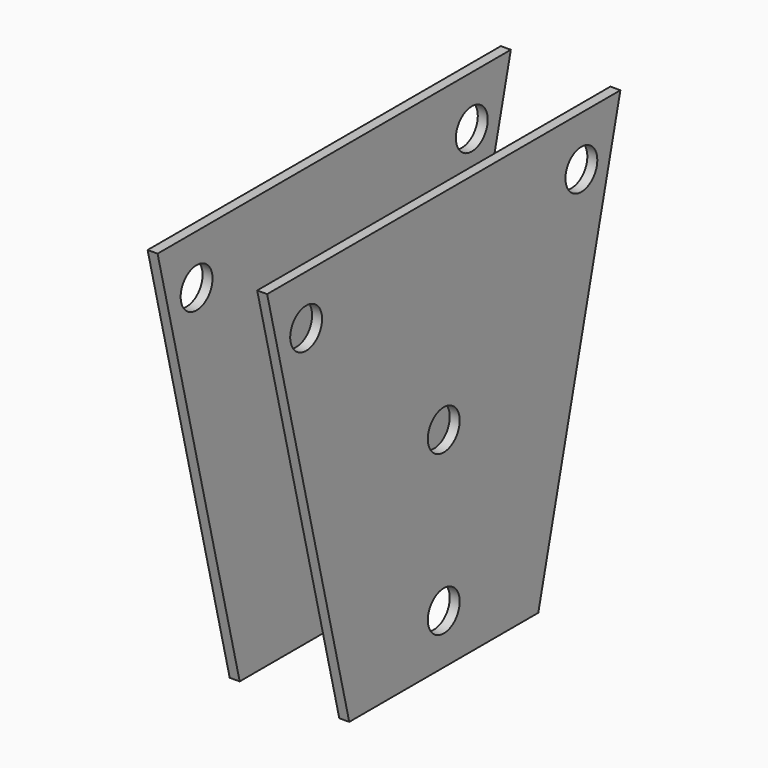
from build123d import *

# Parameters (mm, degrees)
F0_R     = 2
F1_DEPTH = 6
F2_W     = 10
F2_H     = 78.507696
F3_DEPTH = 50


with BuildPart() as f1:
    # F0 (on Right) → F1 (new body, symmetric)
    with BuildSketch(Plane.YZ):
        Polygon((22.16609, 21), (0, 21), (-22.16609, 21), (-11.862469, -21), (0, -21), (11.862469, -21), align=None)
        with Locations((0, -16)):
            Circle(F0_R, mode=Mode.SUBTRACT)
        with Locations((-17.27, 16)):
            Circle(F0_R, mode=Mode.SUBTRACT)
        Circle(F0_R, mode=Mode.SUBTRACT)
        with Locations((17.27, 16)):
            Circle(F0_R, mode=Mode.SUBTRACT)
    extrude(amount=F1_DEPTH, both=True)

    # F2 (on Front) → F3 (cut, symmetric)
    with BuildSketch(Plane.XZ):
        Rectangle(F2_W, F2_H)
    extrude(amount=F3_DEPTH, both=True, mode=Mode.SUBTRACT)


solid = f1.part
